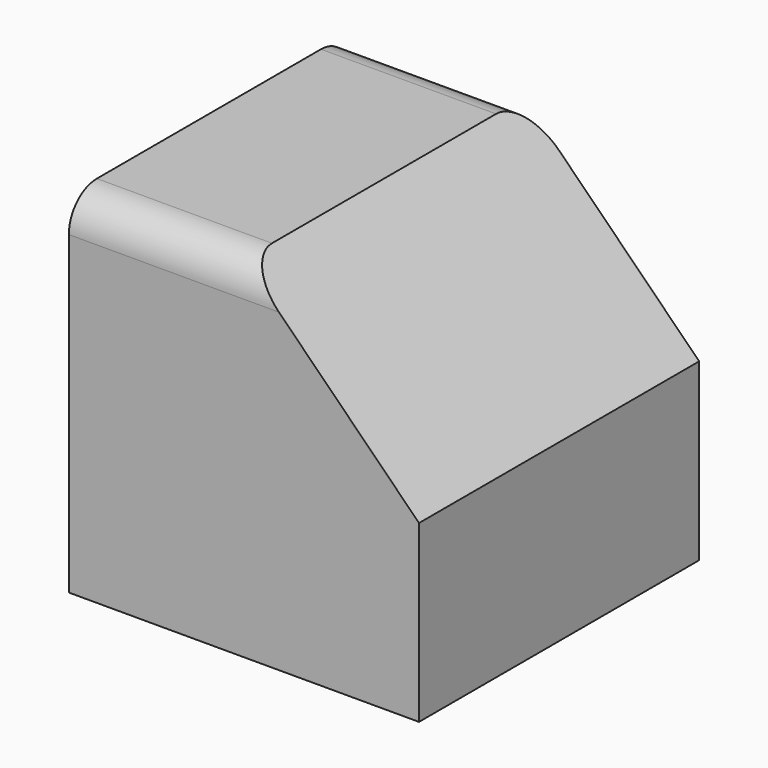
from build123d import *

# Parameters (mm, degrees)
F1_DEPTH = 20
F2_R     = 2


with BuildPart() as f1:
    # F0 (on Front) → F1 (new body)
    with BuildSketch(Plane.XZ):
        Polygon((-19.228746, -9.445448), (0.771254, -9.445448), (0.771254, 0.554552), (-9.228746, 10.554552), (-19.228746, 10.554552), align=None)
    extrude(amount=F1_DEPTH)

    # F2
    f2_edges = [f1.edges().sort_by_distance(p)[0] for p in [
        (-14.228746, 0, 10.554552),
        (-14.228746, -20, 10.554552),
    ]]
    fillet(f2_edges, radius=F2_R)


solid = f1.part
